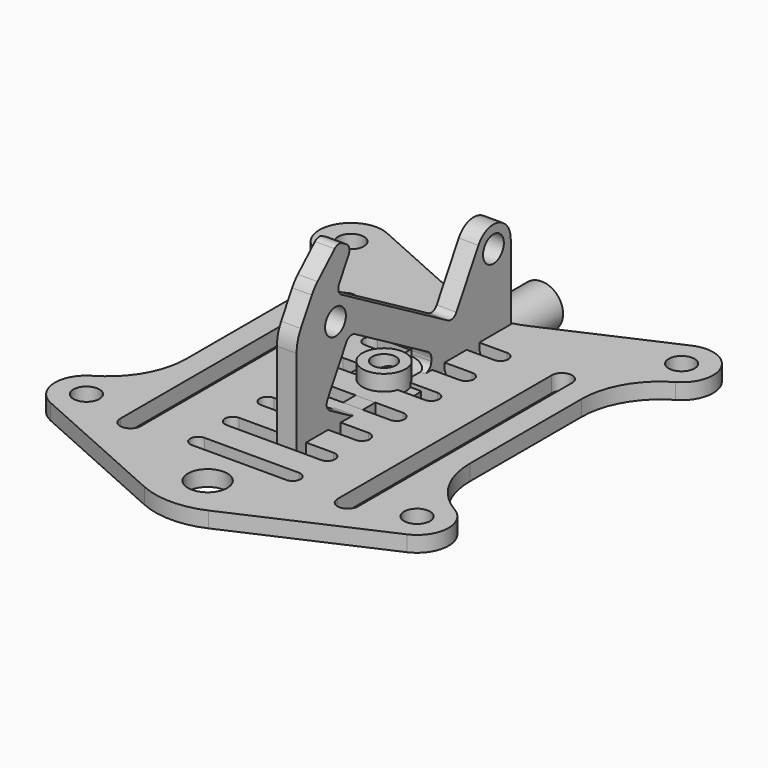
from build123d import *

# Parameters (mm, degrees)
F0_R      = 1.65
F1_DEPTH  = 2.5
F2_R      = 1.65
F3_DEPTH  = 2
F4_W      = 1.5
F4_H      = 25
F6_R      = 2.5
F7_DEPTH  = 25
F8_R      = 2.75
F8_R_2    = 1.5
F9_DEPTH  = 4
F10_R     = 4
F10_R_2   = 1.65
F11_DEPTH = 1.5


with BuildPart() as f1:
    # F0 (on Right) → F1 (new body)
    with BuildSketch(Plane.YZ):
        with BuildLine():
            Line((-18, 0), (-21, 0))
            Line((-21, 0), (-21, -5.5))
            Line((-21, -5.5), (-11, -5.5))
            Line((-11, -5.5), (-11, -4.5))
            ThreePointArc((-11, -4.5), (-10.4142135624, -3.0857864376), (-9, -2.5))
            Line((-9, -2.5), (9, -2.5))
            ThreePointArc((9, -2.5), (10.4142135624, -3.0857864376), (11, -4.5))
            Line((11, -4.5), (11, -5.5))
            Line((11, -5.5), (21, -5.5))
            Line((21, -5.5), (21, 0))
            Line((21, 0), (18, 0))
            ThreePointArc((18, 0), (17.2928932188, 0.2928932188), (17, 1))
            Line((17, 1), (17, 11.5532032303))
            ThreePointArc((17, 11.5532032303), (14.961752374, 14.2094992526), (11.8684301396, 12.9282032303))
            Line((11.8684301396, 12.9282032303), (8.3684301396, 6.8660254038))
            ThreePointArc((8.3684301396, 6.8660254038), (7.7612237809, 6.4000995775), (7.0024047358, 6.5))
            Line((7.0024047358, 6.5), (-9.885090638, 16.25))
            ThreePointArc((-9.885090638, 16.25), (-10.3510164643, 16.8572063587), (-10.2511160418, 17.6160254038))
            Line((-10.2511160418, 17.6160254038), (-8.7511160418, 20.2141016151))
            ThreePointArc((-8.7511160418, 20.2141016151), (-8.6512156193, 20.9729206602), (-9.1171414456, 21.5801270189))
            Line((-9.1171414456, 21.5801270189), (-9.7718301064, 21.9581116935))
            ThreePointArc((-9.7718301064, 21.9581116935), (-10.3876406452, 22.0853576117), (-10.957658059, 21.8198500009))
            Line((-10.957658059, 21.8198500009), (-13.6811524919, 19.2532908526))
            ThreePointArc((-13.6811524919, 19.2532908526), (-14.1732092521, 18.7167646464), (-14.5821397477, 18.1144722964))
            Line((-14.5821397477, 18.1144722964), (-16.3301270189, 15.0868695316))
            ThreePointArc((-16.3301270189, 15.0868695316), (-16.8296291314, 13.8809647571), (-17, 12.5868695316))
            Line((-17, 12.5868695316), (-17, 1))
            ThreePointArc((-17, 1), (-17.2928932188, 0.2928932188), (-18, 0))
        make_face()
        with BuildLine():
            ThreePointArc((-9.1040017247, 10.602885683), (-8.4967953661, 11.0688115093), (-7.737976321, 10.9689110868))
            Line((-7.737976321, 10.9689110868), (3.886379332, 4.2575862213))
            ThreePointArc((3.886379332, 4.2575862213), (4.2524047358, 3.8915608176), (4.386379332, 3.3915608176))
            Line((4.386379332, 3.3915608176), (4.386379332, 3))
            ThreePointArc((4.386379332, 3), (4.0934861132, 2.2928932188), (3.386379332, 2))
            Line((3.386379332, 2), (-7.9354174377, 2))
            ThreePointArc((-7.9354174377, 2), (-8.1942364828, 2.0340741737), (-8.4354174377, 2.1339745962))
            Line((-8.4354174377, 2.1339745962), (-11.737976321, 4.0407078565))
            ThreePointArc((-11.737976321, 4.0407078565), (-12.2039021472, 4.6479142152), (-12.1040017247, 5.4067332603))
            Line((-12.1040017247, 5.4067332603), (-9.1040017247, 10.602885683))
        make_face(mode=Mode.SUBTRACT)
        with Locations((-10.8270779361, 13.6184301396)):
            Circle(F0_R, mode=Mode.SUBTRACT)
        with Locations((14.25, 11.5532032303)):
            Circle(F0_R, mode=Mode.SUBTRACT)
    extrude(amount=F1_DEPTH)


with BuildPart() as f3:
    # F2 (on Top) → F3 (new body)
    with BuildSketch(Plane.XY):
        with BuildLine():
            Line((-4.0786698965, 17.8219928381), (-19.3685320414, 24.6521654262))
            ThreePointArc((-19.3685320414, 24.6521654262), (-24.5629016429, 22.8181671768), (-23, 17.5358983849))
            ThreePointArc((-23, 17.5358983849), (-19.3397459622, 13.875644347), (-18, 8.875644347))
            Line((-18, 8.875644347), (-18, -8.875644347))
            ThreePointArc((-18, -8.875644347), (-19.3397459622, -13.875644347), (-23, -17.5358983849))
            ThreePointArc((-23, -17.5358983849), (-24.9946469224, -21.206871858), (-22.6314679586, -24.6521654262))
            Line((-22.6314679586, -24.6521654262), (-4.0786698965, -32.9399322847))
            ThreePointArc((-4.0786698965, -32.9399322847), (0, -33.8095187193), (4.0786698965, -32.9399322847))
            Line((4.0786698965, -32.9399322847), (22.6314679586, -24.6521654262))
            ThreePointArc((22.6314679586, -24.6521654262), (24.9946469224, -21.206871858), (23, -17.5358983849))
            ThreePointArc((23, -17.5358983849), (19.3397459622, -13.875644347), (18, -8.875644347))
            Line((18, -8.875644347), (18, 8.875644347))
            ThreePointArc((18, 8.875644347), (19.3397459622, 13.875644347), (23, 17.5358983849))
            ThreePointArc((23, 17.5358983849), (24.5629016429, 22.8181671768), (19.3685320414, 24.6521654262))
            Line((19.3685320414, 24.6521654262), (4.0786698965, 17.8219928381))
            ThreePointArc((4.0786698965, 17.8219928381), (0, 16.9524064035), (-4.0786698965, 17.8219928381))
        make_face()
        with Locations((-21, -21)):
            Circle(F2_R, mode=Mode.SUBTRACT)
        with BuildLine():
            Line((-15.1, -23), (-15.1, 11))
            ThreePointArc((-15.1, 11), (-13.8, 12.3), (-12.5, 11))
            Line((-12.5, 11), (-12.5, -23))
            ThreePointArc((-12.5, -23), (-13.8, -24.3), (-15.1, -23))
        make_face(mode=Mode.SUBTRACT)
        with Locations((21, -21)):
            Circle(F2_R, mode=Mode.SUBTRACT)
        with BuildLine():
            ThreePointArc((12.5, 11), (13.8, 12.3), (15.1, 11))
            Line((15.1, 11), (15.1, -23))
            ThreePointArc((15.1, -23), (13.8, -24.3), (12.5, -23))
            Line((12.5, -23), (12.5, 11))
        make_face(mode=Mode.SUBTRACT)
        with Locations((-21, 21)):
            Circle(F2_R, mode=Mode.SUBTRACT)
        with Locations((21, 21)):
            Circle(F2_R, mode=Mode.SUBTRACT)
    extrude(amount=F3_DEPTH)

    # F6 (on face) → F7 (cut)
    with BuildSketch(Plane(origin=(0, 0, 0), x_dir=(1, 0, 0), z_dir=(0, 0, -1))):
        with BuildLine():
            ThreePointArc((-6, 23), (-7, 22), (-6, 21))
            Line((-6, 21), (6, 21))
            ThreePointArc((6, 21), (7, 22), (6, 23))
            Line((6, 23), (-6, 23))
        make_face()
        with BuildLine():
            ThreePointArc((-6, 17.5), (-7, 16.5), (-6, 15.5))
            Line((-6, 15.5), (6, 15.5))
            ThreePointArc((6, 15.5), (7, 16.5), (6, 17.5))
            Line((6, 17.5), (-6, 17.5))
        make_face()
        with BuildLine():
            ThreePointArc((-6, 12), (-7, 11), (-6, 10))
            Line((-6, 10), (6, 10))
            ThreePointArc((6, 10), (7, 11), (6, 12))
            Line((6, 12), (-6, 12))
        make_face()
        with BuildLine():
            ThreePointArc((-6, 6.5), (-7, 5.5), (-6, 4.5))
            Line((-6, 4.5), (6, 4.5))
            ThreePointArc((6, 4.5), (7, 5.5), (6, 6.5))
            Line((6, 6.5), (-6, 6.5))
        make_face()
        with BuildLine():
            ThreePointArc((-6, 1), (-7, 0), (-6, -1))
            Line((-6, -1), (6, -1))
            ThreePointArc((6, -1), (7, 0), (6, 1))
            Line((6, 1), (-6, 1))
        make_face()
        with BuildLine():
            ThreePointArc((-6, -4.5), (-7, -5.5), (-6, -6.5))
            Line((-6, -6.5), (6, -6.5))
            ThreePointArc((6, -6.5), (7, -5.5), (6, -4.5))
            Line((6, -4.5), (-6, -4.5))
        make_face()
        with BuildLine():
            ThreePointArc((-6, -10), (-7, -11), (-6, -12))
            Line((-6, -12), (6, -12))
            ThreePointArc((6, -12), (7, -11), (6, -10))
            Line((6, -10), (-6, -10))
        make_face()
        with Locations((0, 28)):
            Circle(F6_R)
    extrude(amount=-F7_DEPTH, mode=Mode.SUBTRACT)


with BuildPart() as f5:
    # F4 (on Top) → F5 (revolve)
    with BuildSketch(Plane.XY):
        with Locations((2, 12.5)):
            Rectangle(F4_W, F4_H)
    revolve(axis=Axis((0, 12.5, 0), (0, 1, 0)))


with BuildPart() as f9:
    # F8 (on Top) → F9 (new body)
    with BuildSketch(Plane.XY):
        Circle(F8_R)
        Circle(F8_R_2, mode=Mode.SUBTRACT)
    extrude(amount=F9_DEPTH)


with BuildPart() as f11:
    # F10 (on Top) → F11 (new body)
    with BuildSketch(Plane.XY):
        Circle(F10_R)
        Circle(F10_R_2, mode=Mode.SUBTRACT)
    extrude(amount=F11_DEPTH)


solid = Compound([f1.part, f3.part, f5.part, f9.part, f11.part])
